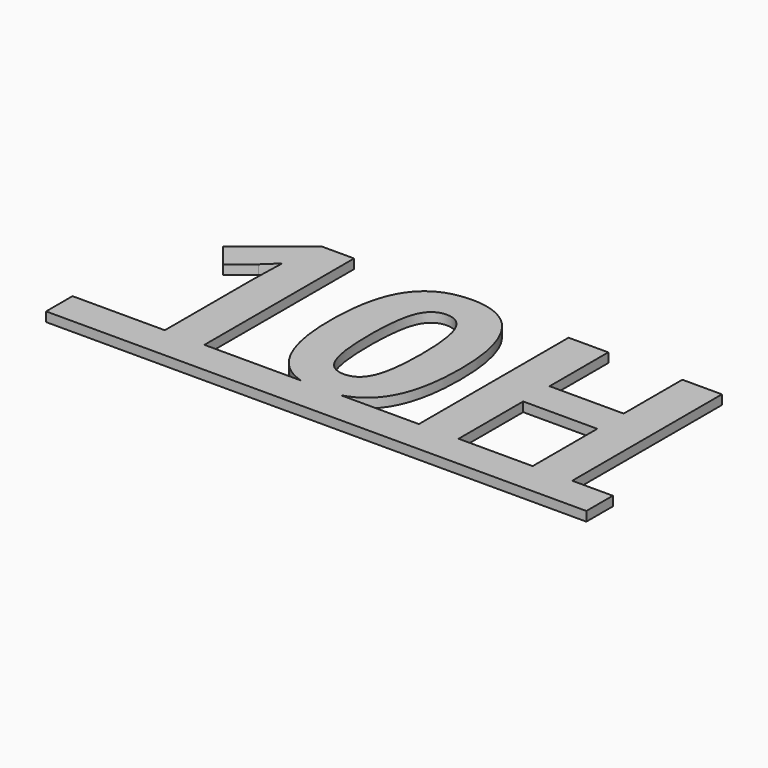
from build123d import *

# Parameters (mm, degrees)
F1_DEPTH = 50.8


with BuildPart() as f1:
    # F0 (on Top) → F1 (new body)
    with BuildSketch(Plane.XY):
        with BuildLine():
            Line((1266.2720567983, -367.7194986343), (1052.9625724822, -367.7194986343))
            add(Edge.make_bspline(
                [(1157.4506100814, -381.6101236343), (1100.6523838428, -381.6101236343), (1052.9625724822, -367.7194986343)],
                knots=[0, 0, 0, 0.3256694736, 0.3256694736, 0.3256694736], degree=2))
            add(Edge.make_bspline(
                [(1266.2720567983, -367.7194986343), (1216.9782969498, -381.6101236343), (1157.4506100814, -381.6101236343)],
                knots=[0.6691374514, 0.6691374514, 0.6691374514, 1, 1, 1], degree=2))
        make_face()
        with BuildLine():
            add(Edge.make_bspline(
                [(1052.9625724822, -367.7194986343), (954.2161494987, -338.9575997586), (894.5209225814, -250.6413736343)],
                knots=[0.3256694736, 0.3256694736, 0.3256694736, 1, 1, 1], degree=2))
            Line((1052.9625724822, -367.7194986343), (1266.2720567983, -367.7194986343))
            add(Edge.make_bspline(
                [(1423.7978323036, -254.7203666899), (1365.9639106358, -339.6270552608), (1266.2720567983, -367.7194986343)],
                knots=[0, 0, 0, 0.6691374514, 0.6691374514, 0.6691374514], degree=2))
            add(Edge.make_bspline(
                [(1510.2283878591, 135.8707791434), (1510.2283878591, -127.8306097454), (1423.7978323036, -254.7203666899)],
                knots=[0, 0, 0, 1, 1, 1], degree=2))
            add(Edge.make_bspline(
                [(1421.0417559147, 523.2648763657), (1510.2283878591, 390.973209699), (1510.2283878591, 135.8707791434)],
                knots=[0, 0, 0, 1, 1, 1], degree=2))
            add(Edge.make_bspline(
                [(1157.4506100814, 655.5565430323), (1331.8551239702, 655.5565430323), (1421.0417559147, 523.2648763657)],
                knots=[0, 0, 0, 1, 1, 1], degree=2))
            add(Edge.make_bspline(
                [(892.2058184147, 529.1077583101), (978.4158878591, 655.5565430323), (1157.4506100814, 655.5565430323)],
                knots=[0, 0, 0, 1, 1, 1], degree=2))
            add(Edge.make_bspline(
                [(805.9957489702, 135.8707791434), (805.9957489702, 402.6589735879), (892.2058184147, 529.1077583101)],
                knots=[0, 0, 0, 1, 1, 1], degree=2))
            add(Edge.make_bspline(
                [(894.5209225814, -250.6413736343), (805.9957489702, -119.6726236343), (805.9957489702, 135.8707791434)],
                knots=[0, 0, 0, 1, 1, 1], degree=2))
        make_face()
        with BuildLine():
            add(Edge.make_bspline(
                [(1017.6624156369, 135.8707791434), (1017.6624156369, -49.3375541899), (1049.632901748, -129.5944986343)],
                knots=[0, 0, 0, 1, 1, 1], degree=2))
            add(Edge.make_bspline(
                [(1049.9636309147, 402.2180013657), (1017.6624156369, 321.2995985879), (1017.6624156369, 135.8707791434)],
                knots=[0, 0, 0, 1, 1, 1], degree=2))
            add(Edge.make_bspline(
                [(1157.4506100814, 483.1364041434), (1082.2648461925, 483.1364041434), (1049.9636309147, 402.2180013657)],
                knots=[0, 0, 0, 1, 1, 1], degree=2))
            add(Edge.make_bspline(
                [(1264.6068600814, 402.2180013657), (1231.0929711925, 483.1364041434), (1157.4506100814, 483.1364041434)],
                knots=[0, 0, 0, 1, 1, 1], degree=2))
            add(Edge.make_bspline(
                [(1298.1207489702, 135.8707791434), (1298.1207489702, 321.2995985879), (1264.6068600814, 402.2180013657)],
                knots=[0, 0, 0, 1, 1, 1], degree=2))
            add(Edge.make_bspline(
                [(1265.0478323036, -128.6023111343), (1298.1207489702, -47.3531791899), (1298.1207489702, 135.8707791434)],
                knots=[0, 0, 0, 1, 1, 1], degree=2))
            add(Edge.make_bspline(
                [(1157.4506100814, -209.8514430788), (1231.9749156369, -209.8514430788), (1265.0478323036, -128.6023111343)],
                knots=[0, 0, 0, 1, 1, 1], degree=2))
            add(Edge.make_bspline(
                [(1049.632901748, -129.5944986343), (1081.6033878591, -209.8514430788), (1157.4506100814, -209.8514430788)],
                knots=[0, 0, 0, 1, 1, 1], degree=2))
        make_face(mode=Mode.SUBTRACT)
        with BuildLine():
            Line((-177.3723065853, -367.7194986343), (-177.3723065853, -545.5194986343))
            Line((-177.3723065853, -545.5194986343), (2731.2804711925, -545.5194986343))
            Line((2731.2804711925, -545.5194986343), (2731.2804711925, -367.7194986343))
            Line((2731.2804711925, -367.7194986343), (2512.7787350814, -367.7194986343))
            Line((2512.7787350814, -367.7194986343), (2299.789151748, -367.7194986343))
            Line((2299.789151748, -367.7194986343), (1900.929776748, -367.7194986343))
            Line((1900.929776748, -367.7194986343), (1687.2787350814, -367.7194986343))
            Line((1687.2787350814, -367.7194986343), (1266.2720567983, -367.7194986343))
            add(Edge.make_bspline(
                [(1266.2720567983, -367.7194986343), (1216.9782969498, -381.6101236343), (1157.4506100814, -381.6101236343)],
                knots=[0.6691374514, 0.6691374514, 0.6691374514, 1, 1, 1], degree=2))
            add(Edge.make_bspline(
                [(1157.4506100814, -381.6101236343), (1100.6523838428, -381.6101236343), (1052.9625724822, -367.7194986343)],
                knots=[0, 0, 0, 0.3256694736, 0.3256694736, 0.3256694736], degree=2))
            Line((1052.9625724822, -367.7194986343), (532.5929711925, -367.7194986343))
            Line((532.5929711925, -367.7194986343), (319.6033878591, -367.7194986343))
            Line((319.6033878591, -367.7194986343), (-177.3723065853, -367.7194986343))
        make_face()
        Polygon((2299.789151748, -367.7194986343), (2512.7787350814, -367.7194986343), (2512.7787350814, 639.6815430323), (2299.789151748, 639.6815430323), (2299.789151748, 244.7909180323), (1900.929776748, 244.7909180323), (1900.929776748, 639.6815430323), (1687.2787350814, 639.6815430323), (1687.2787350814, -367.7194986343), (1900.929776748, -367.7194986343), (1900.929776748, 67.0791124768), (2299.789151748, 67.0791124768), align=None)
        with BuildLine():
            Line((319.6033878591, 215.2457791434), (319.6033878591, -367.7194986343))
            Line((319.6033878591, -367.7194986343), (532.5929711925, -367.7194986343))
            Line((532.5929711925, -367.7194986343), (532.5929711925, 639.6815430323))
            Line((532.5929711925, 639.6815430323), (357.5269989702, 639.6815430323))
            Line((357.5269989702, 639.6815430323), (32.9714434147, 381.2718208101))
            Line((32.9714434147, 381.2718208101), (135.7179711925, 253.1693902546))
            Line((135.7179711925, 253.1693902546), (251.4731795258, 346.2145291434))
            add(Edge.make_bspline(
                [(325.1155406369, 415.6676541434), (272.1988739702, 362.7509874768), (251.4731795258, 346.2145291434)],
                knots=[0, 0, 0, 1, 1, 1], degree=2))
            Line((325.1155406369, 415.6676541434), (321.8082489702, 310.9367513657))
            Line((321.8082489702, 310.9367513657), (319.6033878591, 215.2457791434))
        make_face()
    extrude(amount=F1_DEPTH)


solid = f1.part
